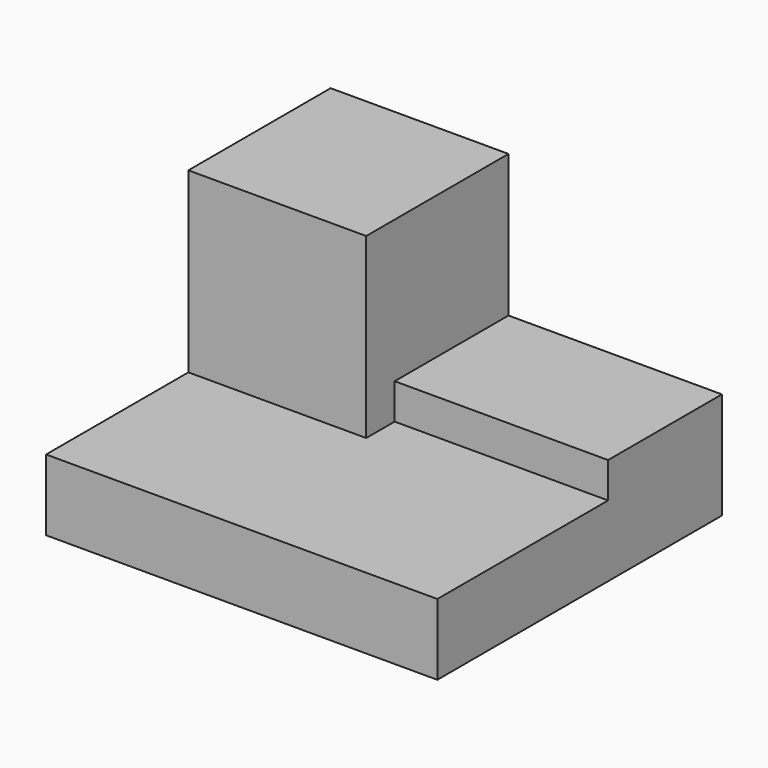
from build123d import *

# Parameters (mm, degrees)
F0_W     = 1397
F0_H     = 889
F1_DEPTH = 1270
F2_W     = 635
F2_H     = 635
F3_DEPTH = 1397.001
F4_W     = 762
F4_H     = 508
F5_DEPTH = 635.001
F6_W     = 762
F6_H     = 127
F7_DEPTH = 127


with BuildPart() as f1:
    # F0 (on Front) → F1 (new body)
    with BuildSketch(Plane.XZ):
        Rectangle(F0_W, F0_H)
    extrude(amount=F1_DEPTH)

    # F2 (on face) → F3 (cut, through all)
    with BuildSketch(Plane.YZ.offset(698.5)):
        with Locations((-952.5, 127)):
            Rectangle(F2_W, F2_H)
    extrude(amount=-F3_DEPTH, mode=Mode.SUBTRACT)

    # F4 (on face) → F5 (cut, through all)
    with BuildSketch(Plane.XZ.offset(635)):
        with Locations((317.5, 190.5)):
            Rectangle(F4_W, F4_H)
    extrude(amount=-F5_DEPTH, mode=Mode.SUBTRACT)

    # F6 (on face) → F7 (cut)
    with BuildSketch(Plane.XZ.offset(635)):
        with Locations((317.5, -127)):
            Rectangle(F6_W, F6_H)
    extrude(amount=-F7_DEPTH, mode=Mode.SUBTRACT)


solid = f1.part
